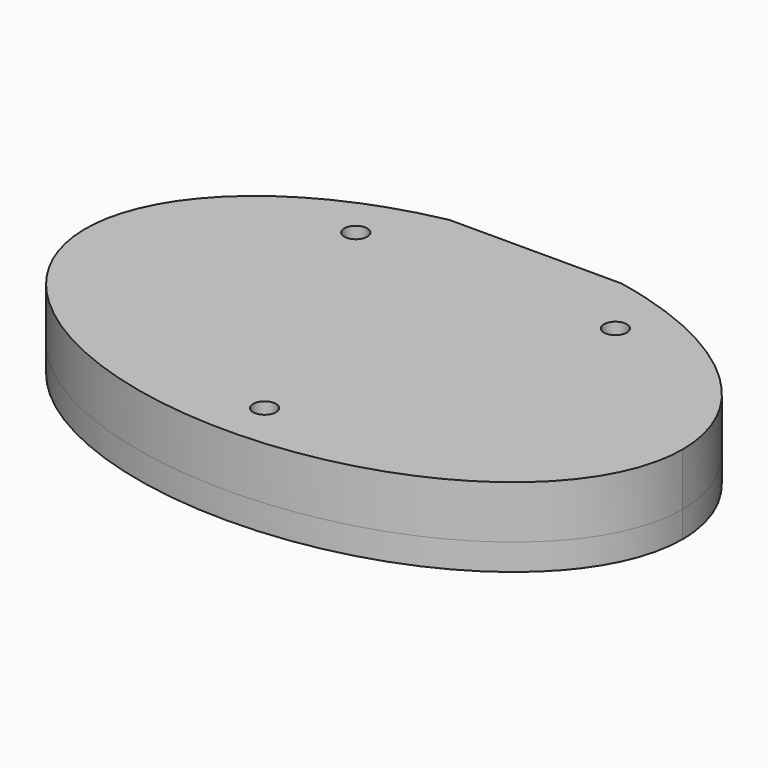
from build123d import *

# Parameters (mm, degrees)
PAD_DEPTH       = 6
POCKET_DEPTH    = 3
PAD001_DEPTH    = 3
SKETCH003_W     = 56
SKETCH003_H     = 2.82
POCKET001_DEPTH = 3
SKETCH004_W     = 19.6
SKETCH004_H     = 1
POCKET002_DEPTH = 9.001
SKETCH005_R     = 1.3
POCKET003_DEPTH = 9.001


with BuildPart() as part:
    # Sketch → Pad (new body)
    with BuildSketch(Plane.XY):
        with BuildLine():
            add(Edge.make_bspline(
                [(34, 0), (34, 38.971143), (-17, 19.485572), (-68, 0), (-17, -19.485572), (34, -38.971143), (34, 0)],
                knots=[0, 0, 0, 2.094395, 2.094395, 4.18879, 4.18879, 6.283185, 6.283185, 6.283185], degree=2, weights=[1, 0.5, 1, 0.5, 1, 0.5, 1]))
        make_face()
    extrude(amount=PAD_DEPTH)

    # Sketch001 (on Face2 of Pad) → Pocket (cut)
    with BuildSketch(Plane(origin=(0, 0, 0), x_dir=(1, 0, 0), z_dir=(0, 0, -1))):
        Polygon((9.775, -3.450064), (9.775, -21.550064), (-9.775, -21.550064), (-9.775, -3.450064), (-28.5, -3.450064), (-28.5, 8.549936), (28.5, 8.549936), (28.5, -3.450064), align=None)
    extrude(amount=-POCKET_DEPTH, mode=Mode.SUBTRACT)

    # Sketch002 (on Face2 of Pocket) → Pad001 (join)
    with BuildSketch(Plane(origin=(0, 0, 0), x_dir=(1, 0, 0), z_dir=(0, 0, -1))):
        with BuildLine():
            add(Edge.make_bspline(
                [(34, 0), (34, 38.971143), (-17, 19.485572), (-68, 0), (-17, -19.485572), (34, -38.971143), (34, 0)],
                knots=[0, 0, 0, 2.094395, 2.094395, 4.18879, 4.18879, 6.283185, 6.283185, 6.283185], degree=2, weights=[1, 0.5, 1, 0.5, 1, 0.5, 1]))
        make_face()
    extrude(amount=PAD001_DEPTH)

    # Sketch003 (on Face4 of Pad001) → Pocket001 (cut)
    with BuildSketch(Plane(origin=(0, 0, -3), x_dir=(1, 0, 0), z_dir=(0, 0, -1))):
        with Locations((0, 2.549936)):
            Rectangle(SKETCH003_W, SKETCH003_H)
    extrude(amount=-POCKET001_DEPTH, mode=Mode.SUBTRACT)

    # Sketch004 (on Face4 of Pocket001) → Pocket002 (cut, through all)
    with BuildSketch(Plane(origin=(0, 0, -3), x_dir=(1, 0, 0), z_dir=(0, 0, -1))):
        with Locations((0, -22.045091)):
            Rectangle(SKETCH004_W, SKETCH004_H)
    extrude(amount=-POCKET002_DEPTH, mode=Mode.SUBTRACT)

    # Sketch005 (on Face7 of Pocket002) → Pocket003 (cut, through all)
    with BuildSketch(Plane(origin=(0, 0, -3), x_dir=(1, 0, 0), z_dir=(0, 0, -1))):
        with Locations((-14.775, -14.450064)):
            Circle(SKETCH005_R)
        with Locations((0, 17)):
            Circle(SKETCH005_R)
        with Locations((14.775, -14.450064)):
            Circle(SKETCH005_R)
    extrude(amount=-POCKET003_DEPTH, mode=Mode.SUBTRACT)


solid = part.part
